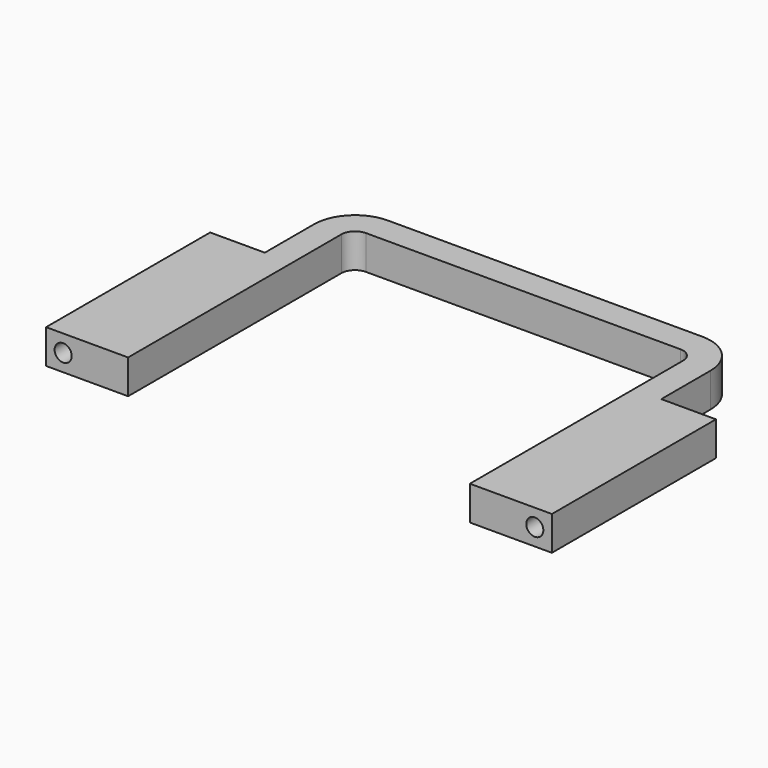
from build123d import *

# Parameters (mm, degrees)
PAD_DEPTH    = 5
SKETCH001_R  = 1.25
POCKET_DEPTH = 30.001


with BuildPart() as part:
    # Sketch → Pad (new body)
    with BuildSketch(Plane.XY):
        with BuildLine():
            Line((0, 41), (23, 41))
            ThreePointArc((25, 39), (24.414214, 40.414214), (23, 41))
            Line((25, 39), (25, 0))
            Line((25, 0), (37, 0))
            Line((37, 30), (37, 0))
            Line((29, 30), (37, 30))
            Line((29, 39), (29, 30))
            ThreePointArc((29, 39), (27.242641, 43.242641), (23, 45))
            Line((0, 45), (23, 45))
            Line((0, 45), (0, 41))
        make_face()
    extrude(amount=PAD_DEPTH)

    # Sketch001 (on Face7 of Pad) → Pocket (cut, through all)
    with BuildSketch(Plane(origin=(0, 30, 0), x_dir=(-1, 0, 0), z_dir=(0, 1, 0))):
        with Locations((-34.5, 2.5)):
            Circle(SKETCH001_R)
    extrude(amount=-POCKET_DEPTH, mode=Mode.SUBTRACT)

    # Mirrored: part across YZ


with BuildPart() as part_1:
    add(part.part)
    add(part.part.mirror(Plane.YZ))


solid = part_1.part
